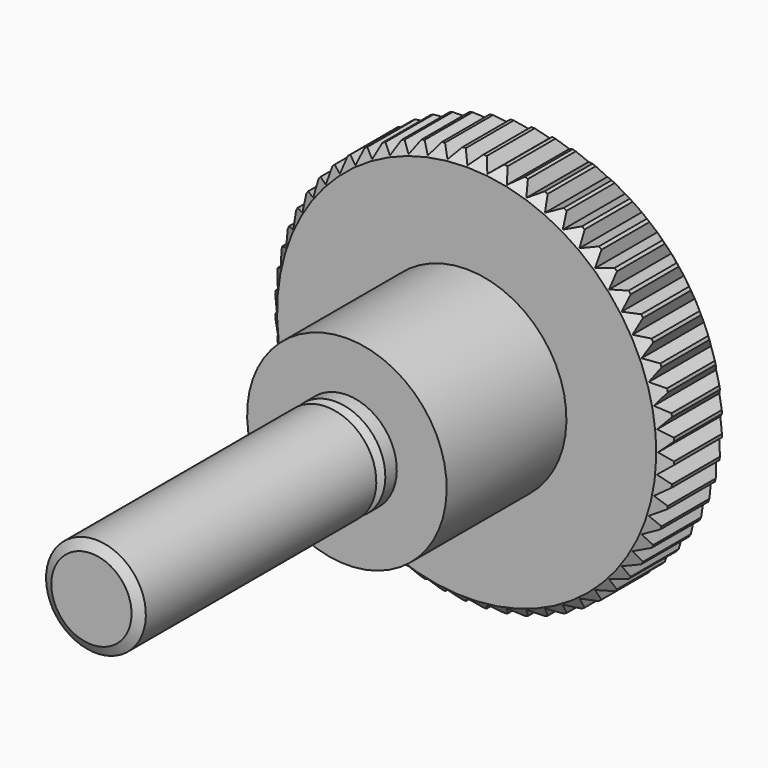
from build123d import *

# Parameters (mm, degrees)
POCKET_DEPTH       = 106.399669
POLARPATTERN_COUNT = 60


with BuildPart() as part:
    # Sketch → Revolution (revolve)
    with BuildSketch(Plane.YZ):
        Polygon((0, 0), (0, 2.01), (0.282902, 2.5), (14.717098, 2.5), (15, 2.01), (15.282902, 2.5), (16, 2.5), (16, 5), (23.5, 5), (23.5, 9.5), (24, 10), (27, 10), (27.5, 9.5), (27.5, 0), align=None)
    revolve(axis=Axis((0, 0, 0), (0, 1, 0)))

    # Sketch001 → Pocket (cut, through all)
    with BuildSketch(Plane.ZX.offset(27.5)):
        Polygon((-0.5, 10.05), (0, 9.55), (0.5, 10.05), align=None)
    pocket = extrude(amount=-POCKET_DEPTH, mode=Mode.SUBTRACT)

    # PolarPattern: Pocket ×60 about axis
    polarpattern_axis = Axis((0, 27.5, 0), (0, 1, 0))
    for i in range(1, POLARPATTERN_COUNT):
        add(pocket.rotate(polarpattern_axis, i * 360 / POLARPATTERN_COUNT), mode=Mode.SUBTRACT)


solid = part.part
